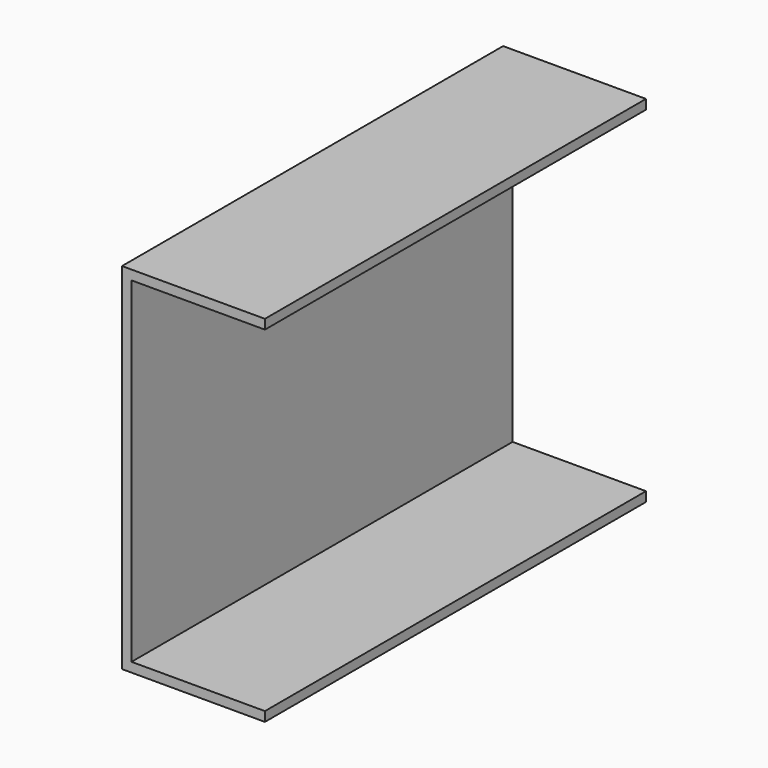
from build123d import *

# Parameters (mm, degrees)
F0_W     = 127
F0_H     = 94.615
F1_DEPTH = 38.1
F2_T     = -2.54


with BuildPart() as f1:
    # F0 (on Right) → F1 (new body)
    with BuildSketch(Plane.YZ):
        Rectangle(F0_W, F0_H)
    extrude(amount=F1_DEPTH)

    # F2
    f2_openings = [f1.faces().sort_by_distance(p)[0] for p in [
        (38.1, 0, 0),
        (19.05, -63.5, 0),
        (19.05, 63.5, 0),
    ]]
    offset(amount=F2_T, openings=f2_openings)


solid = f1.part
